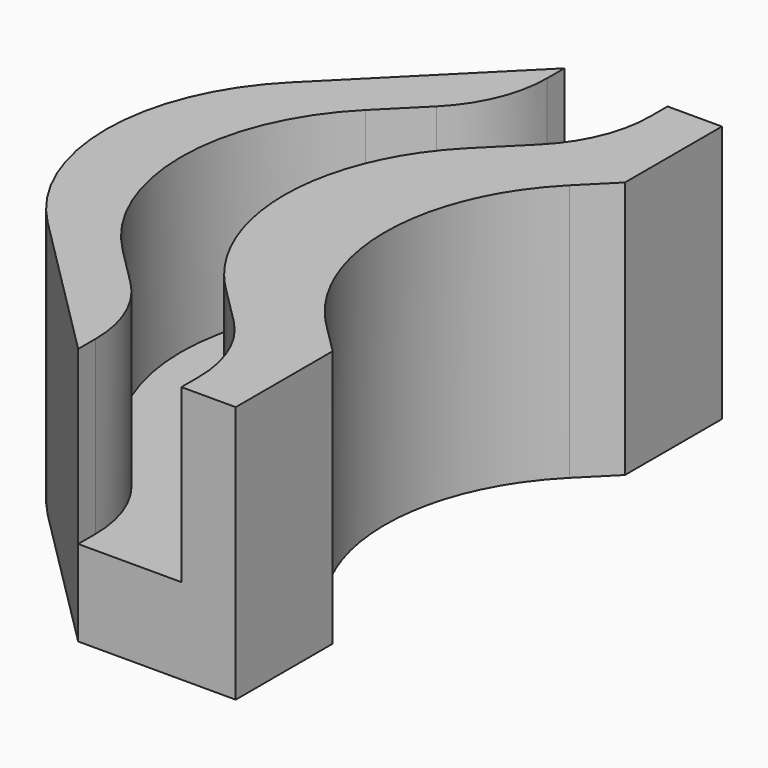
from build123d import *

# Parameters (mm, degrees)
F1_DEPTH = 2
F2_DEPTH = 4
F3_R     = 5
F4_R     = 3


with BuildPart() as f1:
    # F0 (on Top) → F1 (new body)
    with BuildSketch(Plane.XY):
        Polygon((3.6705210805, 7.0790494792), (2.404163056, 7.0790494792), (2.404163056, 5.3348351503), (0, 2.9306720942), (0, 0.5860975944), (3.6705210805, 4.2566186748), align=None)
        Polygon((2.404163056, -5.3348351503), (2.404163056, -7.0790494792), (3.6705210805, -7.0790494792), (3.6705210805, -4.2566186748), (0, -0.5860975944), (0, -2.9306720942), align=None)
        Polygon((0, -5.3348351503), (0, -7.0790494792), (2.404163056, -7.0790494792), (2.404163056, -5.3348351503), (0, -2.9306720942), align=None)
        Polygon((-7.0790494792, 0), (0, -7.0790494792), (0, -5.3348351503), (-5.3348351503, 0), (0, 5.3348351503), (0, 7.0790494792), align=None)
        Polygon((2.404163056, 7.0790494792), (0, 7.0790494792), (0, 5.3348351503), (0, 2.9306720942), (2.404163056, 5.3348351503), align=None)
        Polygon((-5.3348351503, 0), (0, -5.3348351503), (0, -2.9306720942), (-2.9306720942, 0), (0, 2.9306720942), (0, 5.3348351503), align=None)
        Polygon((-2.9306720942, 0), (0, -2.9306720942), (0, -0.5860975944), (-0.5860975944, 0), (0, 0.5860975944), (0, 2.9306720942), align=None)
    extrude(amount=-F1_DEPTH)

    # F0 (on Top) → F2 (join)
    with BuildSketch(Plane.XY):
        Polygon((-7.0790494792, 0), (0, -7.0790494792), (0, -5.3348351503), (-5.3348351503, 0), (0, 5.3348351503), (0, 7.0790494792), align=None)
        Polygon((-2.9306720942, 0), (0, -2.9306720942), (0, -0.5860975944), (-0.5860975944, 0), (0, 0.5860975944), (0, 2.9306720942), align=None)
        Polygon((3.6705210805, 7.0790494792), (2.404163056, 7.0790494792), (2.404163056, 5.3348351503), (0, 2.9306720942), (0, 0.5860975944), (3.6705210805, 4.2566186748), align=None)
        Polygon((2.404163056, -5.3348351503), (2.404163056, -7.0790494792), (3.6705210805, -7.0790494792), (3.6705210805, -4.2566186748), (0, -0.5860975944), (0, -2.9306720942), align=None)
    extrude(amount=F2_DEPTH)

    # F3
    f3_edges = [f1.edges().sort_by_distance(p)[0] for p in [
        (-2.930672, 0, 2),
        (-0.586098, 0, 1),
        (-5.334835, 0, 2),
        (-7.079049, 0, 1),
    ]]
    fillet(f3_edges, radius=F3_R)

    # F4
    f4_edges = [f1.edges().sort_by_distance(p)[0] for p in [
        (2.404163, -5.334835, 2),
        (0, -5.334835, 2),
        (0, 5.334835, 2),
        (2.404163, 5.334835, 2),
    ]]
    fillet(f4_edges, radius=F4_R)


solid = f1.part
